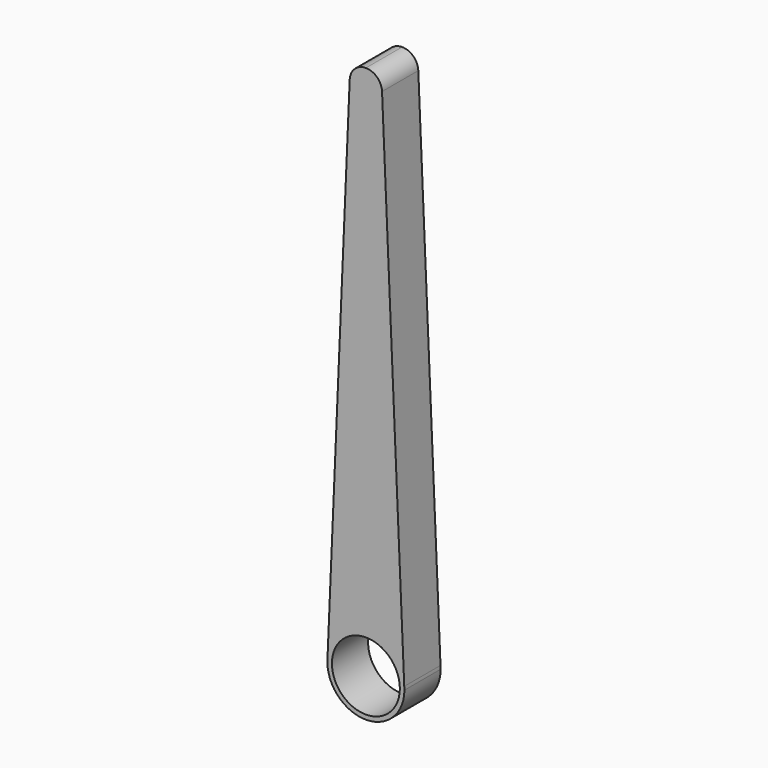
from build123d import *

# Parameters (mm, degrees)
F1_DEPTH = 0.254
F2_R     = 0.1905
F3_DEPTH = 0.255


with BuildPart() as f1:
    # F0 (on Front) → F1 (new body)
    with BuildSketch(Plane.XZ):
        with BuildLine():
            Line((0.213675, 0.030915), (0.2159, 0))
            ThreePointArc((0.2159, 0), (0.215343, 0.015498), (0.213675, 0.030915))
        make_face()
        with BuildLine():
            Line((-0.2159, 0), (-0.213675, 0.030915))
            ThreePointArc((-0.213675, 0.030915), (-0.215343, 0.015498), (-0.2159, 0))
        make_face()
        with BuildLine():
            Line((-0.090623, 2.91319), (-0.2159, 0))
            ThreePointArc((-0.2159, 0), (0, -0.2159), (0.2159, 0))
            Line((0.2159, 0), (0.090623, 2.91319))
            ThreePointArc((0.090623, 2.91319), (0.062747, 2.974796), (0, 3))
            ThreePointArc((0, 3), (-0.062747, 2.974796), (-0.090623, 2.91319))
        make_face()
    extrude(amount=F1_DEPTH)

    # F2 (on face) → F3 (cut, through all)
    with BuildSketch(Plane.XZ.offset(0.254)):
        Circle(F2_R)
    extrude(amount=-F3_DEPTH, mode=Mode.SUBTRACT)


solid = f1.part
